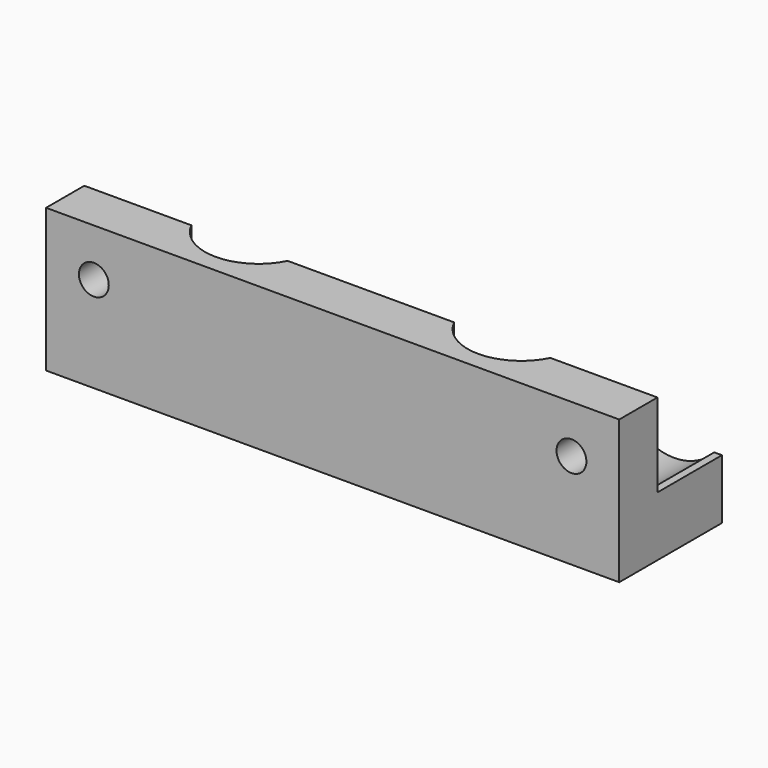
from build123d import *

# Parameters (mm, degrees)
F2_DEPTH      = 5
F3_DEPTH      = 7
F4_D          = 3.5
F4_DEPTH      = 10
F4_TIP        = 1.0515060833
F5_R          = 4.5
F5_R_2        = 1.25
F6_DEPTH      = 6.4
F6_DEPTH_BACK = 2
F7_DEPTH      = 25


with BuildPart() as f2:
    # F1 (on Top) → F2 (new body)
    with BuildSketch(Plane.XY):
        with BuildLine():
            Line((24, 4.75), (-24, 4.75))
            Line((-24, 4.75), (-24, -2))
            Line((-24, -2), (-15.0311288741, -2))
            ThreePointArc((-15.0311288741, -2), (-12.0271124735, 4.3812144397), (-6.5, 0))
            ThreePointArc((-6.5, 0), (-6.6187855603, -1.0271124735), (-6.9688711259, -2))
            Line((-6.9688711259, -2), (6.9688711259, -2))
            ThreePointArc((6.9688711259, -2), (9.9728875265, 4.3812144397), (15.5, 0))
            ThreePointArc((15.5, 0), (15.3812144397, -1.0271124735), (15.0311288741, -2))
            Line((15.0311288741, -2), (24, -2))
            Line((24, -2), (24, 4.75))
        make_face()
        with BuildLine():
            ThreePointArc((-6.5, 0), (-12.0271124735, 4.3812144397), (-15.0311288741, -2))
            Line((-15.0311288741, -2), (-6.9688711259, -2))
            ThreePointArc((-6.9688711259, -2), (-6.6187855603, -1.0271124735), (-6.5, 0))
        make_face()
        with BuildLine():
            Line((-15.0311288741, -2), (-24, -2))
            Line((-24, -2), (-24, -6))
            Line((-24, -6), (24, -6))
            Line((24, -6), (24, -2))
            Line((24, -2), (15.0311288741, -2))
            ThreePointArc((15.0311288741, -2), (11, -4.5), (6.9688711259, -2))
            Line((6.9688711259, -2), (-6.9688711259, -2))
            ThreePointArc((-6.9688711259, -2), (-11, -4.5), (-15.0311288741, -2))
        make_face()
        with BuildLine():
            Line((-6.9688711259, -2), (-15.0311288741, -2))
            ThreePointArc((-15.0311288741, -2), (-11, -4.5), (-6.9688711259, -2))
        make_face()
        with BuildLine():
            ThreePointArc((6.9688711259, -2), (11, -4.5), (15.0311288741, -2))
            Line((15.0311288741, -2), (6.9688711259, -2))
        make_face()
        with BuildLine():
            Line((6.9688711259, -2), (15.0311288741, -2))
            ThreePointArc((15.0311288741, -2), (15.3812144397, -1.0271124735), (15.5, 0))
            ThreePointArc((15.5, 0), (9.9728875265, 4.3812144397), (6.9688711259, -2))
        make_face()
    extrude(amount=-F2_DEPTH)

    # F1 (on Top) → F3 (join)
    with BuildSketch(Plane.XY):
        with BuildLine():
            Line((-15.0311288741, -2), (-24, -2))
            Line((-24, -2), (-24, -6))
            Line((-24, -6), (24, -6))
            Line((24, -6), (24, -2))
            Line((24, -2), (15.0311288741, -2))
            ThreePointArc((15.0311288741, -2), (11, -4.5), (6.9688711259, -2))
            Line((6.9688711259, -2), (-6.9688711259, -2))
            ThreePointArc((-6.9688711259, -2), (-11, -4.5), (-15.0311288741, -2))
        make_face()
    extrude(amount=F3_DEPTH)

    # F4
    with Locations(Plane.XY):
        with Locations((-11, 0), (11, 0)):
            Hole(F4_D / 2, depth=F4_DEPTH)
            with Locations((0, 0, -(F4_DEPTH + F4_TIP / 2))):  # 118° drill point
                Cone(0, F4_D / 2, F4_TIP, mode=Mode.SUBTRACT)

    # F5 (on Front) → F6 (cut, two sides)
    with BuildSketch(Plane.XZ) as f6_sk:
        with Locations((20, 3)):
            Circle(F5_R)
        with Locations((20, 3)):
            Circle(F5_R_2, mode=Mode.SUBTRACT)
        with Locations((-20, 3)):
            Circle(F5_R)
        with Locations((-20, 3)):
            Circle(F5_R_2, mode=Mode.SUBTRACT)
    extrude(amount=-F6_DEPTH, mode=Mode.SUBTRACT)
    extrude(f6_sk.sketch, amount=F6_DEPTH_BACK, mode=Mode.SUBTRACT)

    # F5 (on Front) → F7 (cut)
    with BuildSketch(Plane.XZ):
        with Locations((-20, 3)):
            Circle(F5_R_2)
        with Locations((20, 3)):
            Circle(F5_R_2)
    extrude(amount=F7_DEPTH, mode=Mode.SUBTRACT)


solid = f2.part
